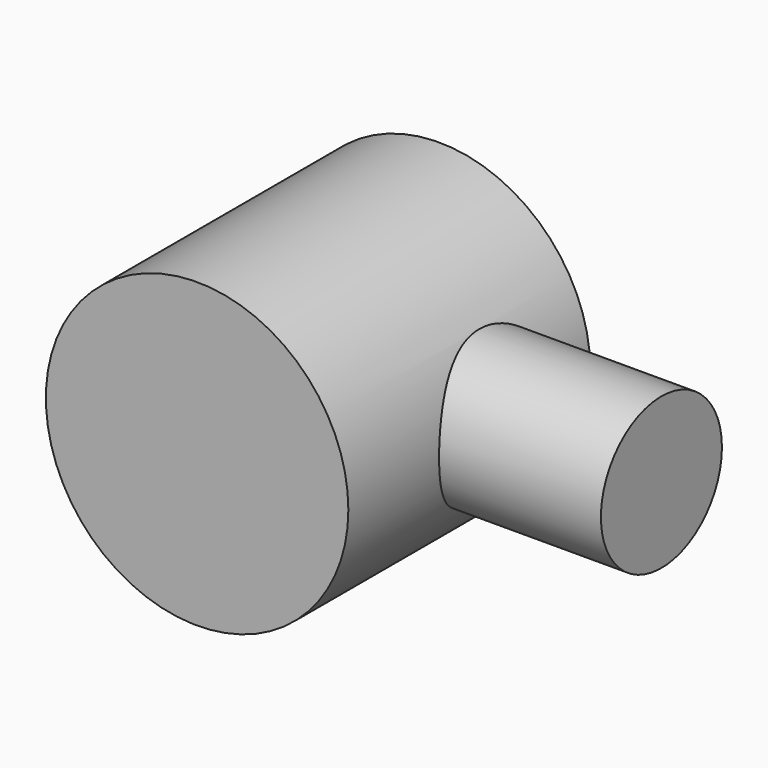
from build123d import *

# Parameters (mm, degrees)
F0_R     = 25.4
F1_DEPTH = 50.8
F2_R     = 12.7
F3_DEPTH = 52.578


with BuildPart() as f1:
    # F0 (on Front) → F1 (new body)
    with BuildSketch(Plane.XZ):
        Circle(F0_R)
    extrude(amount=F1_DEPTH)

    # F2 (on Right) → F3 (join)
    with BuildSketch(Plane.YZ):
        with Locations((-19.05, 0)):
            Circle(F2_R)
    extrude(amount=F3_DEPTH)


solid = f1.part
